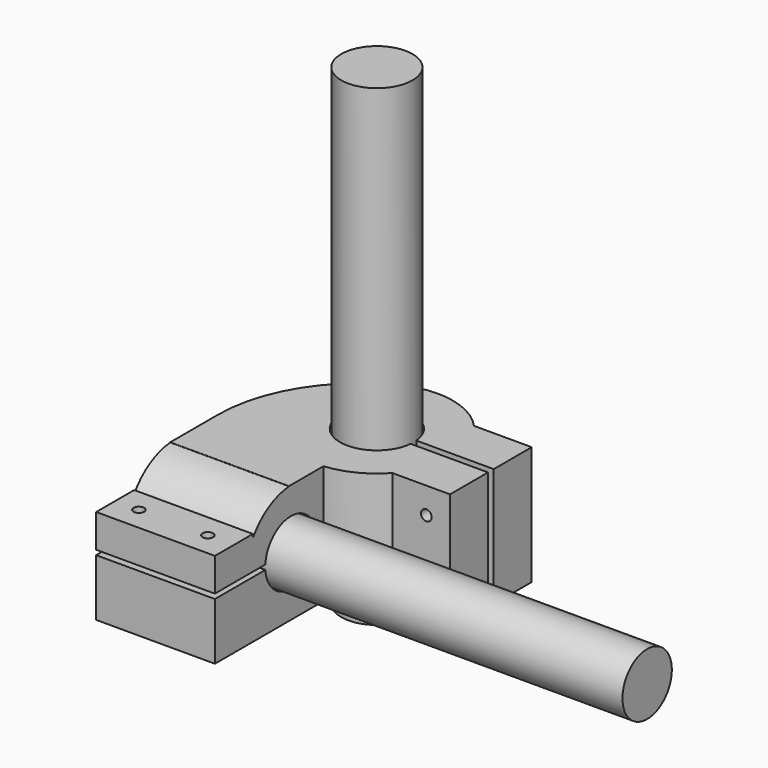
from build123d import *

# Parameters (mm, degrees)
CYLINDER_R                  = 15
CYLINDER_DEPTH              = 199
CYLINDER001_R               = 13
CYLINDER001_DEPTH           = 200
CYLINDER005_R               = 2.25
CYLINDER005_DEPTH           = 50
CYLINDER006_R               = 2.25
CYLINDER006_DEPTH           = 50
FUSION_ROLL_ANGLE           = 90
FUSION_PLACEMENT_ANGLE      = 90
CYLINDER007_R               = 2.25
CYLINDER007_DEPTH           = 50
CYLINDER008_R               = 2.25
CYLINDER008_DEPTH           = 50
CYLINDER004_R               = 15.5
CYLINDER004_DEPTH           = 199
CYLINDER003_R               = 13.5
CYLINDER003_DEPTH           = 200
BOX006_W                    = 50
BOX006_H                    = 27
BOX006_DEPTH                = 2
BOX_W                       = 20
BOX_H                       = 3
BOX_DEPTH                   = 50
CYLINDER002_W               = 60
CYLINDER002_H               = 50
CYLINDER002_ANGLE           = 60
CYLINDER002_PLACEMENT_ANGLE = 120
BOX005_W                    = 50
BOX005_H                    = 20
BOX005_DEPTH                = 14
BOX004_W                    = 50
BOX004_H                    = 25
BOX004_DEPTH                = 14
BOX003_W                    = 50
BOX003_H                    = 63
BOX003_DEPTH                = 10
BOX002_W                    = 25
BOX002_H                    = 20
BOX002_DEPTH                = 50
BOX001_W                    = 25
BOX001_H                    = 20
BOX001_DEPTH                = 50
TUBE001_R                   = 25
TUBE001_R_2                 = 13.5
TUBE001_DEPTH               = 50
TUBE_R                      = 32
TUBE_R_2                    = 15.5
TUBE_DEPTH                  = 50
BOX007_W                    = 50
BOX007_H                    = 25
BOX007_DEPTH                = 50


with BuildPart() as horizontal:
    # Cylinder → Cylinder (new body)
    with BuildSketch(Plane.XY):
        Circle(CYLINDER_R)
    extrude(amount=CYLINDER_DEPTH)


with BuildPart() as vertical:
    # Cylinder001 → Cylinder001 (new body)
    with BuildSketch(Plane(origin=(-47, -49, 40), x_dir=(0, 1, 0), z_dir=(1, 0, 0))):
        Circle(CYLINDER001_R)
    extrude(amount=CYLINDER001_DEPTH)


with BuildPart() as m4s:
    # Cylinder005 → Cylinder005 (new body)
    with BuildSketch(Plane(origin=(38, 22, 25), x_dir=(1, 0, 0), z_dir=(0, -1, 0))):
        Circle(CYLINDER005_R)
    extrude(amount=CYLINDER005_DEPTH)


with BuildPart() as m4s002:
    # Cylinder006 → Cylinder006 (new body)
    with BuildSketch(Plane(origin=(38, 22, 54), x_dir=(1, 0, 0), z_dir=(0, -1, 0))):
        Circle(CYLINDER006_R)
    extrude(amount=CYLINDER006_DEPTH)

    # Fusion: union m4s
    add(m4s.part)


with BuildPart() as obj1:
    # Fusion roll: moved
    add(m4s002.part.rotate(Axis((0, 0, 0), (1, 0, 0)), FUSION_ROLL_ANGLE))


with BuildPart() as obj2:
    # Fusion placement: moved
    add(obj1.part.moved(Location((-62, -117, 43))).rotate(Axis((-62, -117, 43), (0, 0, 1)), FUSION_PLACEMENT_ANGLE))


with BuildPart() as m4s004:
    # Cylinder007 → Cylinder007 (new body)
    with BuildSketch(Plane(origin=(38, 22, 25), x_dir=(1, 0, 0), z_dir=(0, -1, 0))):
        Circle(CYLINDER007_R)
    extrude(amount=CYLINDER007_DEPTH)


with BuildPart() as m4s003:
    # Cylinder008 → Cylinder008 (new body)
    with BuildSketch(Plane(origin=(38, 22, 54), x_dir=(1, 0, 0), z_dir=(0, -1, 0))):
        Circle(CYLINDER008_R)
    extrude(amount=CYLINDER008_DEPTH)

    # Fusion001: union m4s004
    add(m4s004.part)


with BuildPart() as horizontal001cuts:
    # Cylinder004 → Cylinder004 (new body)
    with BuildSketch(Plane.XY):
        Circle(CYLINDER004_R)
    extrude(amount=CYLINDER004_DEPTH)


with BuildPart() as vertical001cuts:
    # Cylinder003 → Cylinder003 (new body)
    with BuildSketch(Plane(origin=(-47, -49, 40), x_dir=(0, 1, 0), z_dir=(1, 0, 0))):
        Circle(CYLINDER003_R)
    extrude(amount=CYLINDER003_DEPTH)


with BuildPart() as vercuts:
    # Box006 → Box006 (new body)
    with BuildSketch(Plane(origin=(-47, -89, 39), x_dir=(1, 0, 0), z_dir=(0, 0, 1))):
        with Locations((25, 13.5)):
            Rectangle(BOX006_W, BOX006_H)
    extrude(amount=BOX006_DEPTH)


with BuildPart() as cuts:
    # Box → Box (new body)
    with BuildSketch(Plane(origin=(14, -1.5, 15), x_dir=(1, 0, 0), z_dir=(0, 0, 1))):
        with Locations((10, 1.5)):
            Rectangle(BOX_W, BOX_H)
    extrude(amount=BOX_DEPTH)

    # Fusion002: union m4s002, m4s003, Horizontal001Cuts, Vertical001Cuts, verCuts
    add(obj2.part)
    add(m4s003.part)
    add(horizontal001cuts.part)
    add(vertical001cuts.part)
    add(vercuts.part)


with BuildPart() as obj3:
    # Cylinder002 → Cylinder002 (revolve)
    with BuildSketch(Plane.XZ):
        with Locations((30, 25)):
            Rectangle(CYLINDER002_W, CYLINDER002_H)
    revolve(axis=Axis((0, 0, 0), (0, 0, 1)), revolution_arc=CYLINDER002_ANGLE)


with BuildPart() as obj3_1:
    # Cylinder002 placement: moved
    add(obj3.part.moved(Location((13, -25, 15))).rotate(Axis((13, -25, 15), (0, 0, 1)), CYLINDER002_PLACEMENT_ANGLE))


with BuildPart() as veraddons002:
    # Box005 → Box005 (new body)
    with BuildSketch(Plane(origin=(-47, -89, 41), x_dir=(1, 0, 0), z_dir=(0, 0, 1))):
        with Locations((25, 10)):
            Rectangle(BOX005_W, BOX005_H)
    extrude(amount=BOX005_DEPTH)


with BuildPart() as veraddons001:
    # Box004 → Box004 (new body)
    with BuildSketch(Plane(origin=(-47, -89, 25), x_dir=(1, 0, 0), z_dir=(0, 0, 1))):
        with Locations((25, 12.5)):
            Rectangle(BOX004_W, BOX004_H)
    extrude(amount=BOX004_DEPTH)


with BuildPart() as veraddons:
    # Box003 → Box003 (new body)
    with BuildSketch(Plane(origin=(-47, -89, 15), x_dir=(1, 0, 0), z_dir=(0, 0, 1))):
        with Locations((25, 31.5)):
            Rectangle(BOX003_W, BOX003_H)
    extrude(amount=BOX003_DEPTH)


with BuildPart() as obj4:
    # Box002 → Box002 (new body)
    with BuildSketch(Plane(origin=(23, 1.5, 15), x_dir=(1, 0, 0), z_dir=(0, 0, 1))):
        with Locations((12.5, 10)):
            Rectangle(BOX002_W, BOX002_H)
    extrude(amount=BOX002_DEPTH)


with BuildPart() as obj5:
    # Box001 → Box001 (new body)
    with BuildSketch(Plane(origin=(23, -21.5, 15), x_dir=(1, 0, 0), z_dir=(0, 0, 1))):
        with Locations((12.5, 10)):
            Rectangle(BOX001_W, BOX001_H)
    extrude(amount=BOX001_DEPTH)


with BuildPart() as tubeaddons001:
    # Tube001 → Tube001 (new body)
    with BuildSketch(Plane(origin=(-47, -48, 40), x_dir=(0, 0, -1), z_dir=(1, 0, 0))):
        Circle(TUBE001_R)
        Circle(TUBE001_R_2, mode=Mode.SUBTRACT)
    extrude(amount=TUBE001_DEPTH)


with BuildPart() as tubeaddons:
    # Tube → Tube (new body)
    with BuildSketch(Plane.XY.offset(15)):
        Circle(TUBE_R)
        Circle(TUBE_R_2, mode=Mode.SUBTRACT)
    extrude(amount=TUBE_DEPTH)


with BuildPart() as left:
    # Box007 → Box007 (new body)
    with BuildSketch(Plane(origin=(-47, -50, 15), x_dir=(1, 0, 0), z_dir=(0, 0, 1))):
        with Locations((25, 12.5)):
            Rectangle(BOX007_W, BOX007_H)
    extrude(amount=BOX007_DEPTH)

    # Fusion003: union obj3, VerAddons002, VerAddons001, VerAddons, obj4, obj5, TubeAddons001, TubeAddons
    add(obj3_1.part)
    add(veraddons002.part)
    add(veraddons001.part)
    add(veraddons.part)
    add(obj4.part)
    add(obj5.part)
    add(tubeaddons001.part)
    add(tubeaddons.part)

    # Cut: cut cuts
    add(cuts.part, mode=Mode.SUBTRACT)


solid = Compound([horizontal.part, vertical.part, left.part])
